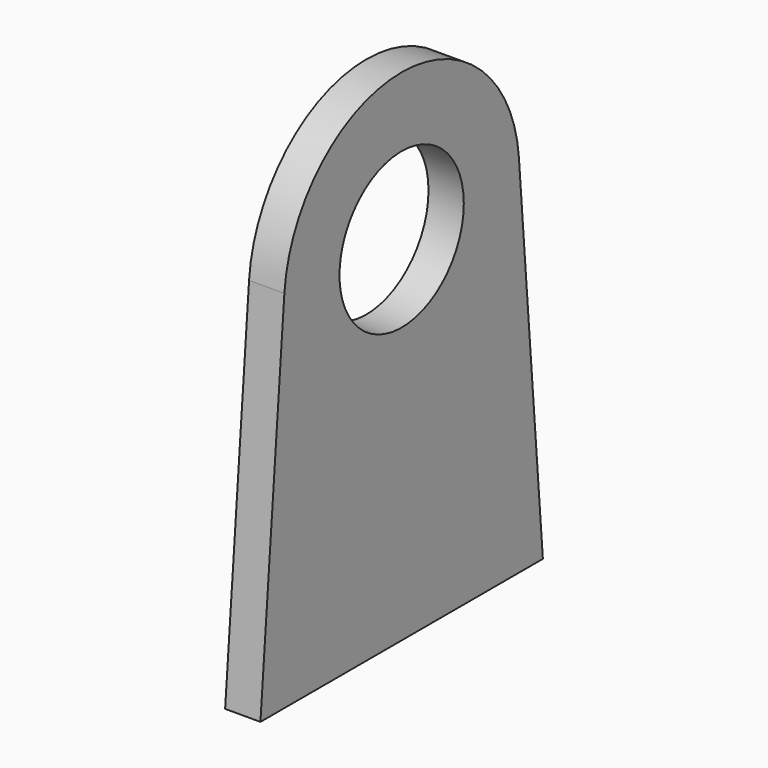
from build123d import *

# Parameters (mm, degrees)
F0_R     = 4.191
F1_DEPTH = 1.905


with BuildPart() as f1:
    # F0 (on Right) → F1 (new body)
    with BuildSketch(Plane.YZ):
        with BuildLine():
            Line((9.525, 0), (7.910989, 19.698203))
            ThreePointArc((7.910989, 19.698203), (0, 26.9875), (-7.910989, 19.698203))
            Line((-7.910989, 19.698203), (-9.525, 0))
            Line((-9.525, 0), (9.525, 0))
        make_face()
        with Locations((0, 19.05)):
            Circle(F0_R, mode=Mode.SUBTRACT)
    extrude(amount=F1_DEPTH)


solid = f1.part
